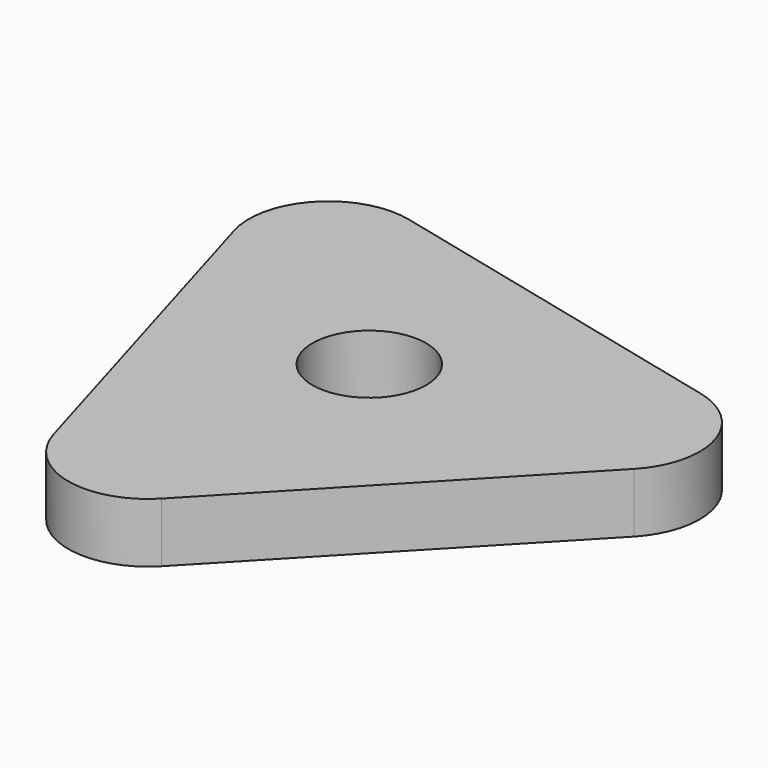
from build123d import *

# Parameters (mm, degrees)
F1_DEPTH = 7.62
F2_R     = 7.270124
F3_DEPTH = 25.4


with BuildPart() as f1:
    # F0 (on Top) → F1 (new body)
    with BuildSketch(Plane.XY):
        with BuildLine():
            ThreePointArc((-19.422231, 41.032927), (-29.168799, 38.16413), (-31.557632, 28.288955))
            Line((-31.557632, 28.288955), (-18.116118, -17.377788))
            ThreePointArc((-18.116118, -17.377788), (-10.758383, -24.384165), (-1.011814, -21.515368))
            Line((-1.011814, -21.515368), (31.815989, 12.958696))
            ThreePointArc((31.815989, 12.958696), (34.204821, 22.833871), (26.847086, 29.840248))
            Line((26.847086, 29.840248), (-19.422231, 41.032927))
        make_face()
    extrude(amount=F1_DEPTH)

    # F2 (on face) → F3 (cut)
    with BuildSketch(Plane.XY.offset(7.62)):
        with Locations((-2.968387, 14.133593)):
            Circle(F2_R)
    extrude(amount=-F3_DEPTH, mode=Mode.SUBTRACT)


solid = f1.part
